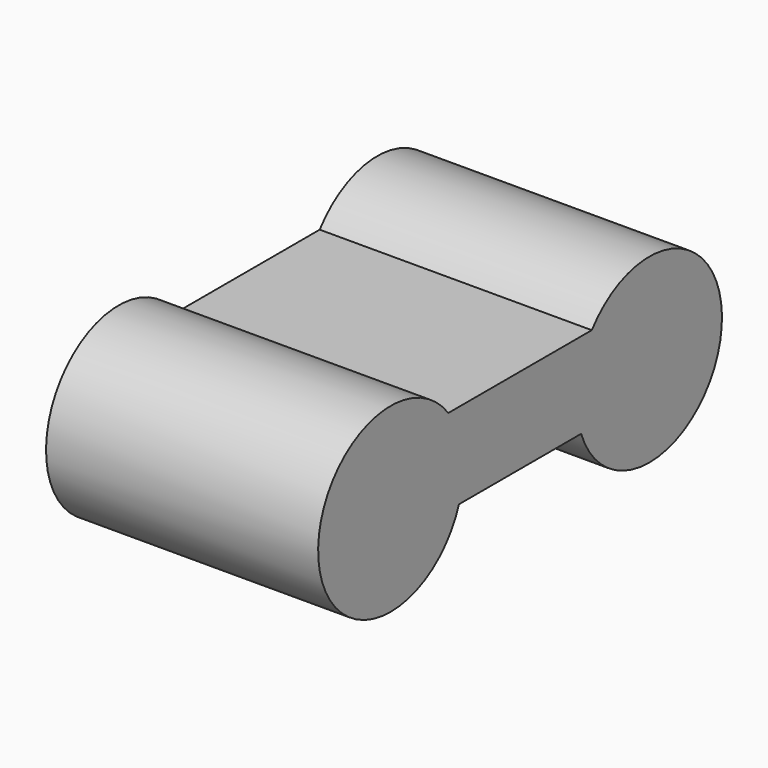
from build123d import *

# Parameters (mm, degrees)
F1_DEPTH  = 76.2
F2_W      = 19.05
F2_H      = 76.2
F3_DEPTH  = 25.4
F3_FACE_W = 19.05
F3_FACE_H = 76.2
F4_DEPTH  = 38.1
F5_R      = 16.51
F6_DEPTH  = 44.45


with BuildPart() as f1:
    # F0 (on Right) → F1 (new body)
    with BuildSketch(Plane.YZ):
        with BuildLine():
            Line((22.535029, 15.43837), (-27.689042, 15.43837))
            ThreePointArc((-27.689042, 15.43837), (-72.957545, -3.900003), (-23.955365, -8.59003))
            Line((-23.955365, -8.59003), (18.801352, -8.59003))
            ThreePointArc((18.801352, -8.59003), (67.803532, -3.900003), (22.535029, 15.43837))
        make_face()
    extrude(amount=F1_DEPTH)

    # F2 (on face) → F3 (join)
    with BuildSketch(Plane(origin=(0, 0, -8.59003), x_dir=(1, 0, 0), z_dir=(0, 0, -1))):
        with Locations((40.256006, 0)):
            Rectangle(F2_W, F2_H)
    extrude(amount=F3_DEPTH)

    # F3_face (on face) → F4 (cut)
    with BuildSketch(Plane(origin=(40.256006, 0, -33.99003), x_dir=(1, 0, 0), z_dir=(0, 0, -1))):
        Rectangle(F3_FACE_W, F3_FACE_H)
    extrude(amount=-F4_DEPTH, mode=Mode.SUBTRACT)

    # F5 (on face) → F6 (cut)
    with BuildSketch(Plane(origin=(0, 0, 0), x_dir=(0, -1, 0), z_dir=(-1, 0, 0))):
        with Locations((-42.704728, 0)):
            Circle(F5_R)
        with Locations((47.858741, 0)):
            Circle(F5_R)
    extrude(amount=-F6_DEPTH, mode=Mode.SUBTRACT)


solid = f1.part
